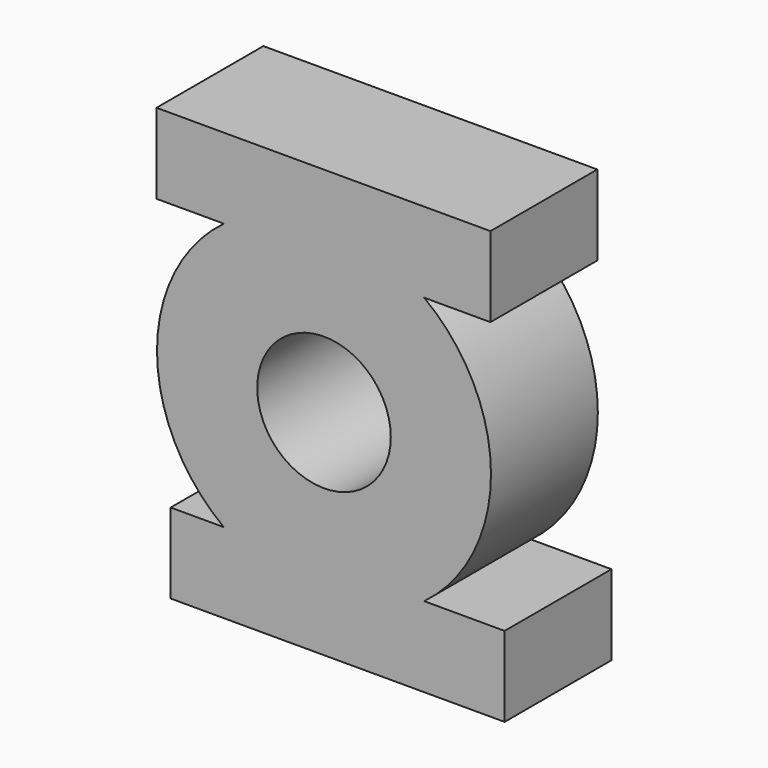
from build123d import *

# Parameters (mm, degrees)
F0_R     = 12.7
F1_DEPTH = 25.4


with BuildPart() as f1:
    # F0 (on Front) → F1 (new body)
    with BuildSketch(Plane.XZ):
        with BuildLine():
            Line((-31.846212, 25.4), (-19.05, 25.4))
            ThreePointArc((-19.05, 25.4), (-31.75, 0), (-19.05, -25.4))
            Line((-19.05, -25.4), (-29.152272, -25.4))
            Line((-29.152272, -25.4), (-29.152272, -40.64))
            Line((-29.152272, -40.64), (34.347728, -40.64))
            Line((34.347728, -40.64), (34.347728, -25.4))
            Line((34.347728, -25.4), (19.05, -25.4))
            ThreePointArc((19.05, -25.4), (31.75, 0), (19.05, 25.4))
            Line((19.05, 25.4), (31.653788, 25.4))
            Line((31.653788, 25.4), (31.653788, 40.64))
            Line((31.653788, 40.64), (-31.846212, 40.64))
            Line((-31.846212, 40.64), (-31.846212, 25.4))
        make_face()
        Circle(F0_R, mode=Mode.SUBTRACT)
    extrude(amount=F1_DEPTH)


solid = f1.part
